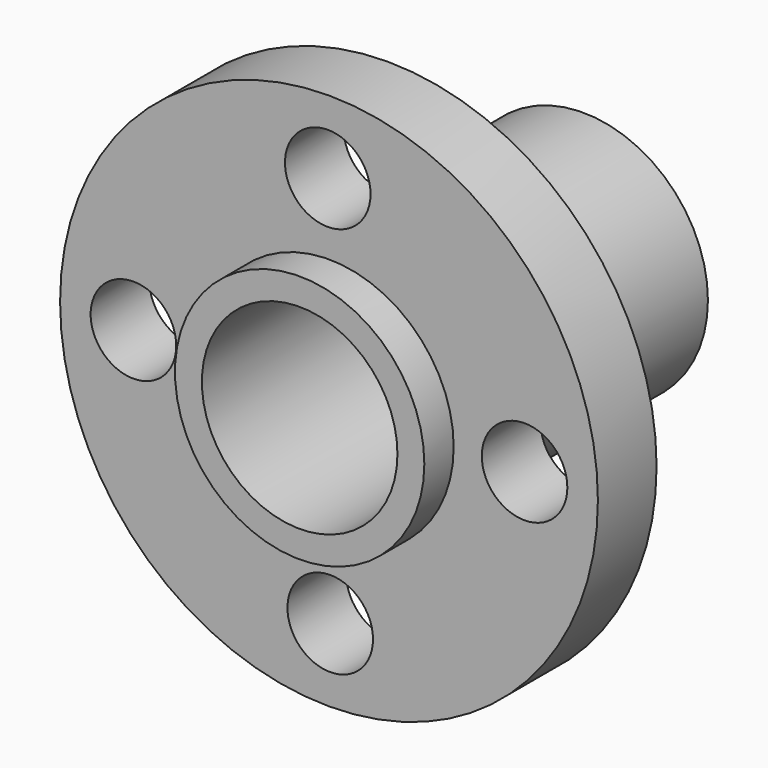
from build123d import *

# Parameters (mm, degrees)
F0_R          = 11
F1_DEPTH      = 3
F2_R          = 5.1
F3_DEPTH      = 1.5
F3_DEPTH_BACK = 13
F4_R          = 4
F5_DEPTH      = 25
F6_R          = 1.75
F7_DEPTH      = 25


with BuildPart() as f1:
    # F0 (on Front) → F1 (new body)
    with BuildSketch(Plane.XZ):
        Circle(F0_R)
    extrude(amount=F1_DEPTH)

    # F2 (on face) → F3 (join, two sides)
    with BuildSketch(Plane.XZ.offset(3)) as f3_sk:
        Circle(F2_R)
    extrude(amount=F3_DEPTH)
    extrude(f3_sk.sketch, amount=-F3_DEPTH_BACK)

    # F4 (on face) → F5 (cut)
    with BuildSketch(Plane.XZ.offset(4.5)):
        Circle(F4_R)
    extrude(amount=-F5_DEPTH, mode=Mode.SUBTRACT)

    # F6 (on face) → F7 (cut)
    with BuildSketch(Plane.XZ.offset(3)):
        with Locations((-0.050654, 7.99984)):
            Circle(F6_R)
        with Locations((7.99984, 0.050654)):
            Circle(F6_R)
        with Locations((0.050654, -7.99984)):
            Circle(F6_R)
        with Locations((-7.99984, -0.050654)):
            Circle(F6_R)
    extrude(amount=-F7_DEPTH, mode=Mode.SUBTRACT)


solid = f1.part
